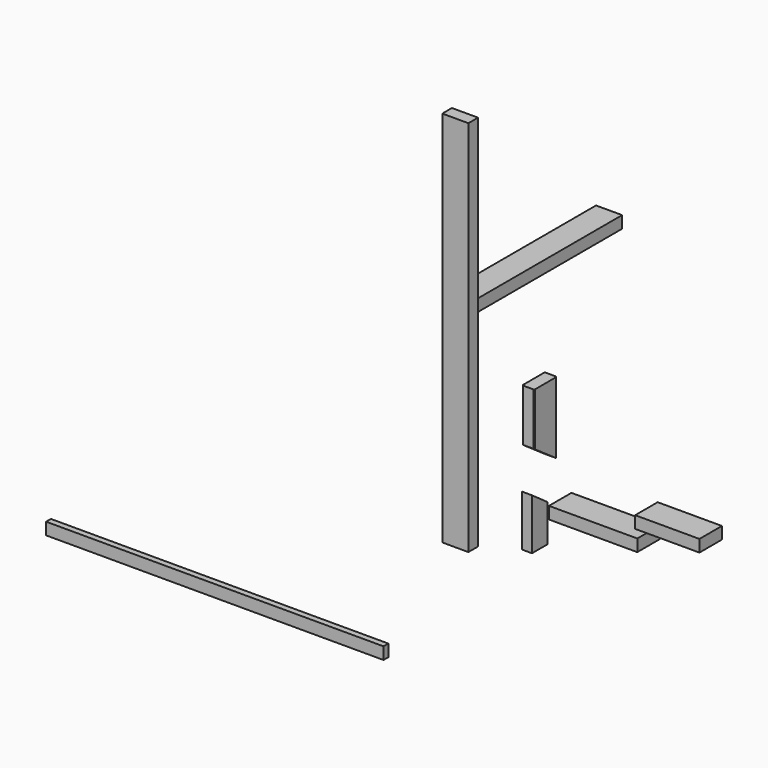
from build123d import *

# Parameters (mm, degrees)
F0_W      = 88.9
F0_H      = 254
F1_DEPTH  = 38.1
F2_R      = 2.54
F3_W      = 82.55
F3_H      = 1193.8
F4_DEPTH  = 38.1
F6_DEPTH  = 88.9
F7_R      = 2.54
F9_DEPTH  = 88.9
F10_R     = 2.54
F15_DEPTH = 38.1
F16_SIZE  = 2.54
F18_DEPTH = 38.1
F19_SIZE  = 2.54
F22_DEPTH = 31.75
F23_W     = 596.9
F23_H     = 38.1
F24_DEPTH = 82.55
F25_W     = 279.4
F25_H     = 38.1
F26_DEPTH = 88.9
F27_W     = 203.2
F27_H     = 38.1
F28_DEPTH = 88.9
F29_W     = 1066.8
F29_H     = 38.1
F30_DEPTH = 19.05


with BuildPart() as f1:
    # F0 (on Front) → F1 (new body)
    with BuildSketch(Plane.XZ):
        with Locations((44.45, 127)):
            Rectangle(F0_W, F0_H)
    extrude(amount=F1_DEPTH)

    # F2
    f2_edges = [f1.edges().sort_by_distance(p)[0] for p in [
        (0, 0, 127),
        (0, -38.1, 127),
        (88.9, -38.1, 127),
        (88.9, 0, 127),
    ]]
    fillet(f2_edges, radius=F2_R)


with BuildPart() as f4:
    # F3 (on Front) → F4 (new body)
    with BuildSketch(Plane.XZ):
        with Locations((139.420604, 596.9)):
            Rectangle(F3_W, F3_H)
    extrude(amount=F4_DEPTH)


with BuildPart() as f6:
    # F5 (on Right) → F6 (new body)
    with BuildSketch(Plane.YZ):
        Polygon((459.739979, 298.644233), (421.639979, 298.644233), (421.639979, 82.744233), (459.739979, 44.644233), align=None)
    extrude(amount=F6_DEPTH)

    # F7
    f7_edges = [f6.edges().sort_by_distance(p)[0] for p in [
        (88.9, 421.639979, 190.694233),
        (88.9, 459.739979, 171.644233),
        (0, 421.639979, 190.694233),
        (0, 459.739979, 171.644233),
    ]]
    fillet(f7_edges, radius=F7_R)


with BuildPart() as f9:
    # F8 (on Right) → F9 (new body)
    with BuildSketch(Plane.YZ):
        Polygon((427.989934, -1.270004), (427.989934, -255.270004), (466.089934, -255.270004), (466.089934, -39.370004), align=None)
    extrude(amount=F9_DEPTH)

    # F10
    f10_edges = [f9.edges().sort_by_distance(p)[0] for p in [
        (0, 427.989934, -128.270004),
        (88.9, 427.989934, -128.270004),
        (88.9, 466.089934, -147.320004),
        (0, 466.089934, -147.320004),
    ]]
    fillet(f10_edges, radius=F10_R)


with BuildPart() as f15:
    # F14 (on Right) → F15 (new body)
    with BuildSketch(Plane.YZ):
        Polygon((489.612907, 0), (489.612907, 227.176326), (400.712907, 227.176326), (400.712907, 62.076326), align=None)
    extrude(amount=F15_DEPTH)

    # F16
    f16_edges = [f15.edges().sort_by_distance(p)[0] for p in [
        (38.1, 400.712907, 144.626326),
        (38.1, 489.612907, 113.588163),
        (0, 489.612907, 113.588163),
        (0, 400.712907, 144.626326),
    ]]
    chamfer(f16_edges, length=F16_SIZE)


with BuildPart() as f18:
    # F17 (on Right) → F18 (new body)
    with BuildSketch(Plane.YZ):
        Polygon((374.346435, 712.469995), (374.346435, 547.369957), (463.246435, 547.369957), (463.246435, 775.969957), align=None)
    extrude(amount=F18_DEPTH)

    # F19
    f19_edges = [f18.edges().sort_by_distance(p)[0] for p in [
        (0, 374.346435, 629.919976),
        (38.1, 374.346435, 629.919976),
        (38.1, 463.246435, 661.669957),
        (0, 463.246435, 661.669957),
    ]]
    chamfer(f19_edges, length=F19_SIZE)


with BuildPart() as f22:
    # F21 (on Right) → F22 (new body)
    with BuildSketch(Plane.YZ):
        Polygon((460.876971, -111.968113), (399.530232, -68.149013), (399.530232, -229.611203), (460.876971, -229.611203), align=None)
    extrude(amount=F22_DEPTH)


with BuildPart() as f24:
    # F23 (on Right) → F24 (new body)
    with BuildSketch(Plane.YZ):
        with Locations((393.805131, 590.161679)):
            Rectangle(F23_W, F23_H)
    extrude(amount=F24_DEPTH)


with BuildPart() as f26:
    # F25 (on Front) → F26 (new body)
    with BuildSketch(Plane.XZ):
        with Locations((615.712936, 226.426033)):
            Rectangle(F25_W, F25_H)
    extrude(amount=F26_DEPTH)


with BuildPart() as f28:
    # F27 (on Front) → F28 (new body)
    with BuildSketch(Plane.XZ):
        with Locations((850.243619, 289.05612)):
            Rectangle(F27_W, F27_H)
    extrude(amount=F28_DEPTH)


with BuildPart() as f30:
    # F29 (on Front) → F30 (new body)
    with BuildSketch(Plane.XZ):
        with Locations((-636.341194, -381.275745)):
            Rectangle(F29_W, F29_H)
    extrude(amount=F30_DEPTH)


solid = Compound([f4.part, f15.part, f22.part, f24.part, f26.part, f28.part, f30.part])
